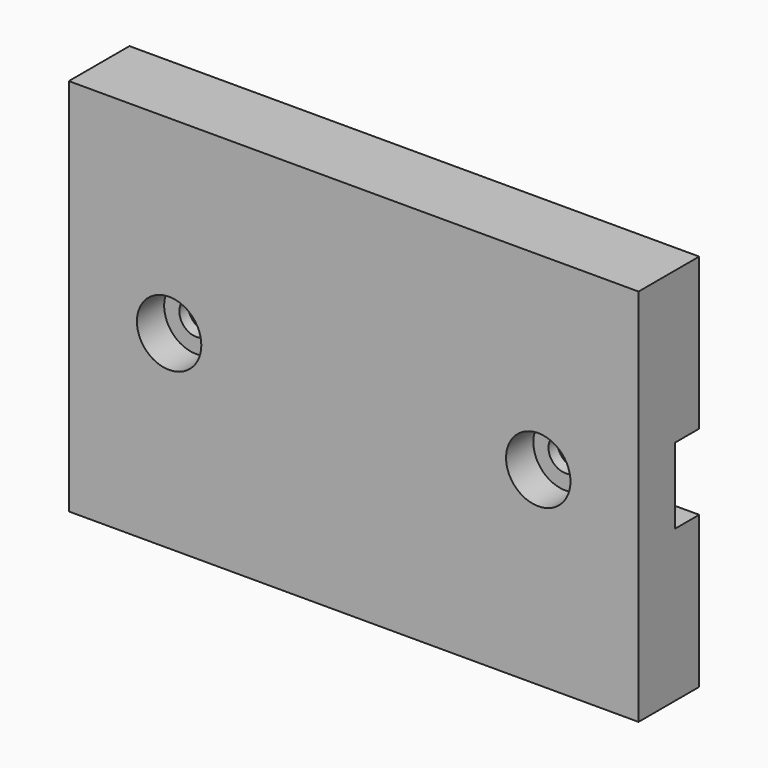
from build123d import *

# Parameters (mm, degrees)
F0_W           = 75.186654
F0_H           = 50
F1_DEPTH       = 10
F2_W           = 4
F2_H           = 10
F3_DEPTH       = 75.187655
F5_D           = 4.5
F5_CBORE_D     = 8.5
F5_CBORE_DEPTH = 4.5


with BuildPart() as f1:
    # F0 (on Front) → F1 (new body)
    with BuildSketch(Plane.XZ):
        Rectangle(F0_W, F0_H)
    extrude(amount=F1_DEPTH)

    # F2 (on face) → F3 (cut, through all)
    with BuildSketch(Plane.YZ.offset(37.593327)):
        with Locations((-2, 0)):
            Rectangle(F2_W, F2_H)
    extrude(amount=-F3_DEPTH, mode=Mode.SUBTRACT)

    # F5 (through all)
    with Locations(Plane.XZ.offset(10)):
        with Locations((-24.358043, 0), (24.358043, 0)):
            CounterBoreHole(F5_D / 2, F5_CBORE_D / 2, F5_CBORE_DEPTH)


solid = f1.part
